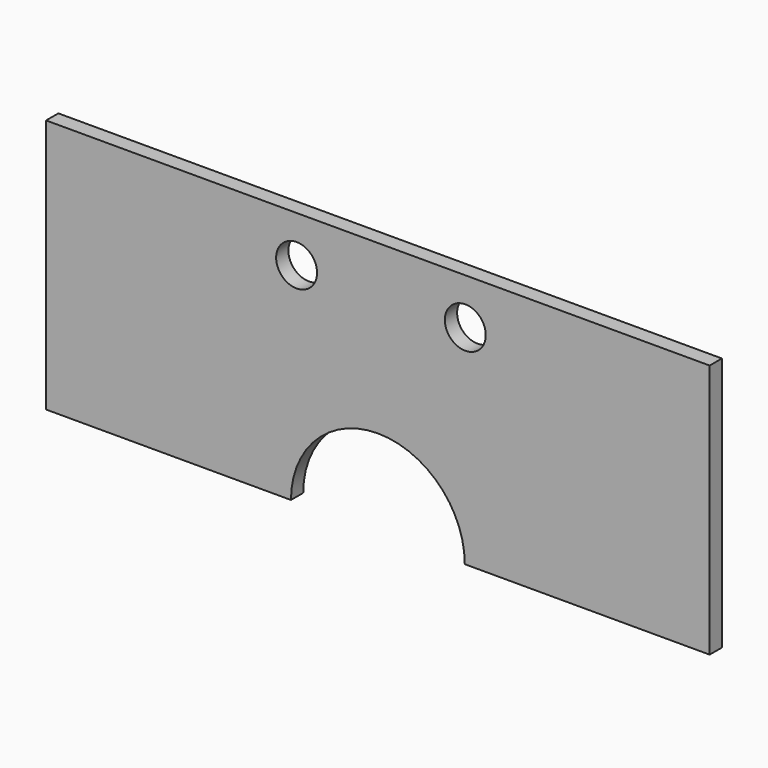
from build123d import *

# Parameters (mm, degrees)
F0_R     = 4
F1_DEPTH = 1.5


with BuildPart() as f1:
    # F0 (on Front) → F1 (new body, symmetric)
    with BuildSketch(Plane.XZ):
        with BuildLine():
            Line((-64.897, 24.892), (-64.897, -24.892))
            Line((-64.897, -24.892), (-17, -24.892))
            ThreePointArc((-17, -24.892), (0, -7.892), (17, -24.892))
            Line((17, -24.892), (64.897, -24.892))
            Line((64.897, -24.892), (64.897, 24.892))
            Line((64.897, 24.892), (-64.897, 24.892))
        make_face()
        with Locations((-15.897, 15.892)):
            Circle(F0_R, mode=Mode.SUBTRACT)
        with Locations((17.103, 15.892)):
            Circle(F0_R, mode=Mode.SUBTRACT)
    extrude(amount=F1_DEPTH, both=True)


solid = f1.part
